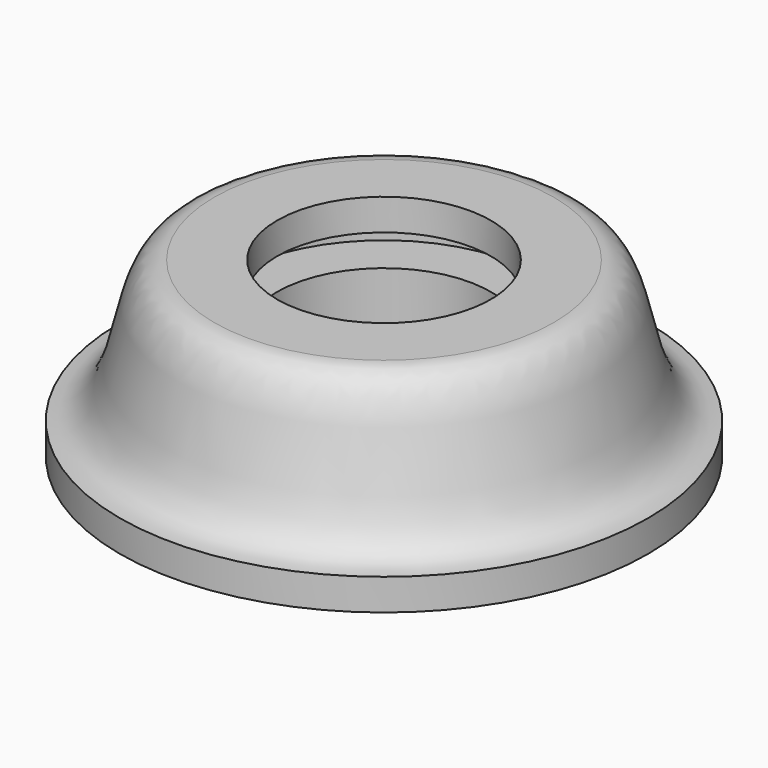
from build123d import *

# Parameters (mm, degrees)
F0_W = 1
F0_H = 2


with BuildPart() as f1:
    # F0 (on Front) → F1 (revolve)
    with BuildSketch(Plane.XZ):
        Polygon((-6.8, 11), (-10.8, 11), (-10.8, 9), (-9.8, 9), (-6.8, 9), align=None)
        with Locations((-10.3, 8)):
            Rectangle(F0_W, F0_H)
        with BuildLine():
            add(Edge.make_bspline(
                [(-16.8, 2), (-12.629367, 2), (-14.361837, 11), (-10.8, 11)],
                knots=[0, 0, 0, 0, 10.816654, 10.816654, 10.816654, 10.816654], degree=3))
            Line((-16.8, 2), (-10.8, 2))
            Line((-10.8, 2), (-10.8, 7))
            Line((-10.8, 7), (-10.8, 9))
            Line((-10.8, 9), (-10.8, 11))
        make_face()
        Polygon((-10.8, 2), (-6.8, 2), (-6.8, 7), (-9.8, 7), (-10.8, 7), align=None)
        Polygon((-16.8, 0), (-6.8, 0), (-6.8, 2), (-10.8, 2), (-16.8, 2), align=None)
        Polygon((-16.8, 0), (-6.8, 0), (-6.8, 2), (-10.8, 2), (-16.8, 2), align=None)
    revolve(axis=Axis((0, 0, 2.701946), (0, 0, 1)))


solid = f1.part
